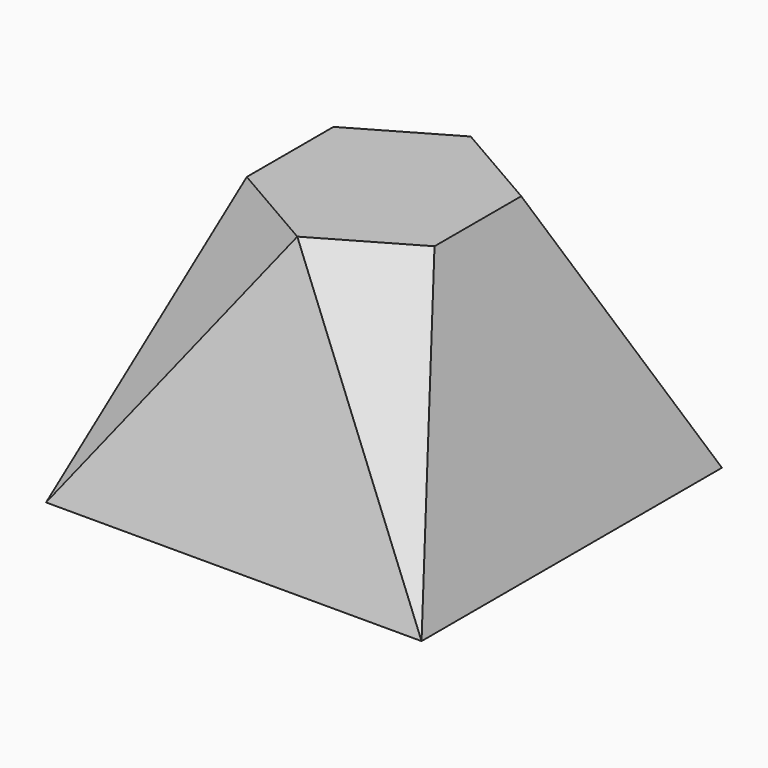
from build123d import *

# Parameters (mm, degrees)
F0_W = 100
F0_H = 100
F6_W = 50
F6_H = 57.735026


with BuildPart() as f3:
    # F2 (on offset) → F3 section 0
    with BuildSketch(Plane.XY.offset(70), mode=Mode.PRIVATE) as f3_s0:
        Polygon((-25, -28.867513), (0, -28.867513), (-25, -14.433757), align=None)
    loft([f3_s0.sketch, Vertex(-50, -50, 0)])


with BuildPart() as f4_1:
    # F4: instance of F3
    add(f3.part.mirror(Plane.XZ))


with BuildPart() as f5_1:
    # F5: instance of F4_1
    add(f4_1.part.mirror(Plane.YZ))


with BuildPart() as f5_2:
    # F5: instance of F3
    add(f3.part.mirror(Plane.YZ))


with BuildPart() as f7:
    # F0 (on Top) → F7 section 0
    with BuildSketch(Plane.XY):
        Rectangle(F0_W, F0_H)
    # F6 (on offset) → F7 section 1
    with BuildSketch(Plane.XY.offset(70)):
        Rectangle(F6_W, F6_H)
    loft()

    # F8: cut F3, F4_1, F5_2, F5_1
    add(f3.part, mode=Mode.SUBTRACT)
    add(f4_1.part, mode=Mode.SUBTRACT)
    add(f5_2.part, mode=Mode.SUBTRACT)
    add(f5_1.part, mode=Mode.SUBTRACT)


solid = f7.part
